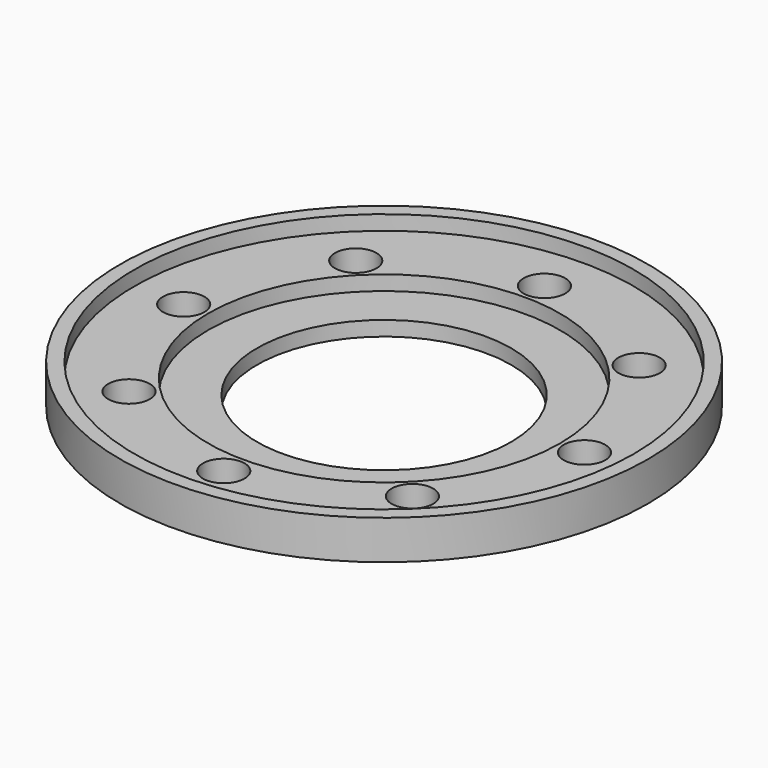
from build123d import *

# Parameters (mm, degrees)
F3_D = 13.49248


with BuildPart() as f1:
    # F0 (on Front) → F1 (revolve)
    with BuildSketch(Plane.XZ):
        Polygon((41.275, 0), (44.45, 0), (44.45, 1.5875), (85.725, 1.5875), (85.725, 9.525), (85.725, 14.2875), (81.0895, 14.2875), (81.0895, 9.525), (57.15, 9.525), (57.15, 4.7625), (41.275, 4.7625), align=None)
    revolve(axis=Axis((0, 0, 11.4762624726), (0, 0, -1)))

    # F3 (through all)
    with Locations(Plane(origin=(0, 0, 1.5875), x_dir=(1, 0, 0), z_dir=(0, 0, -1))):
        with Locations((0, 65.0875), (-46.0238126205, 46.0238126205), (-65.0875, 0), (-46.0238126205, -46.0238126205), (0, -65.0875), (46.0238126205, -46.0238126205), (65.0875, 0), (46.0238126205, 46.0238126205)):
            Hole(F3_D / 2)


solid = f1.part
